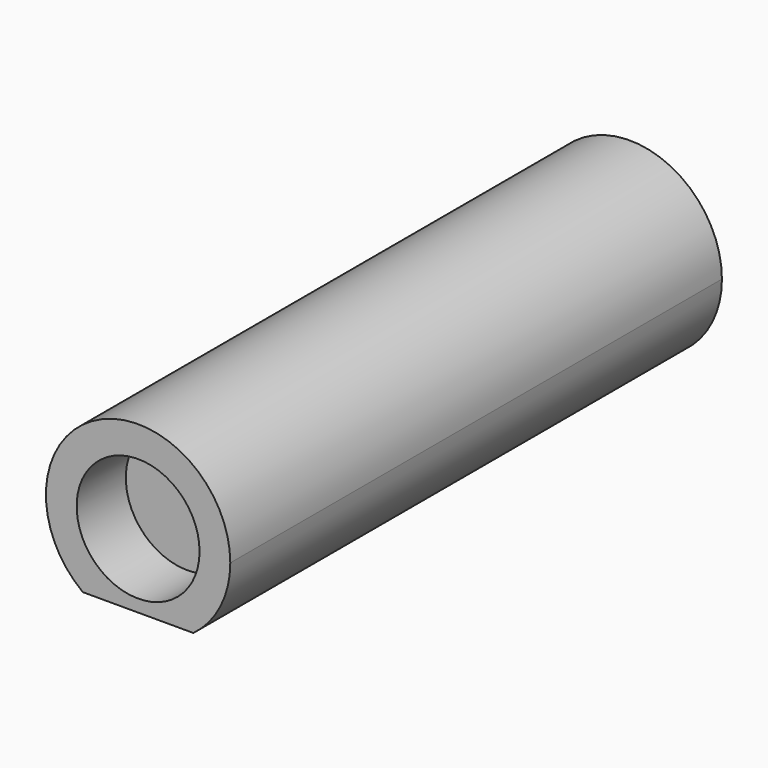
from build123d import *

# Parameters (mm, degrees)
F0_R     = 2.54
F1_DEPTH = 25.4
F2_DEPTH = 22.86


with BuildPart() as f1:
    # F0 (on Front) → F1 (new body)
    with BuildSketch(Plane.XZ):
        with BuildLine():
            ThreePointArc((2.286, -3.048), (3.407768, -1.703884), (3.81, 0))
            ThreePointArc((3.81, 0), (-1.703884, 3.407768), (-2.286, -3.048))
            Line((-2.286, -3.048), (2.286, -3.048))
        make_face()
        Circle(F0_R, mode=Mode.SUBTRACT)
    extrude(amount=F1_DEPTH)

    # F0 (on Front) → F2 (join)
    with BuildSketch(Plane.XZ):
        Circle(F0_R)
    extrude(amount=F2_DEPTH)


solid = f1.part
